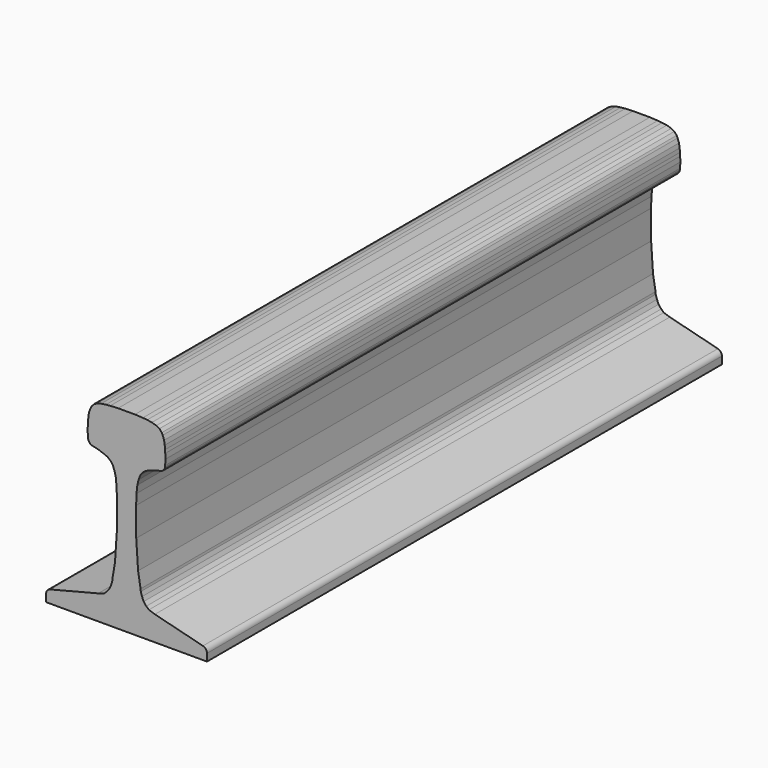
from build123d import *

# Parameters (mm, degrees)
F1_DEPTH = 609.6
F2_R     = 5.08


with BuildPart() as f1:
    # F0 (on Front) → F1 (new body)
    with BuildSketch(Plane.XZ):
        Polygon((-76.2, -46.21704), (-76.2, -57.094753), (76.2, -57.094753), (76.2, -46.21704), (26.83735, -33.72637), (21.163462, -31.835258), (18.708812, -29.612178), (16.218112, -26.55388), (14.689744, -22.895062), (13.485576, -19.143616), (13.305501, -16.85449), (10.935693, -2.660843), (9.173225, 23.941404), (9.095304, 51.274587), (9.465817, 61.371074), (10.203332, 68.52603), (11.415046, 73.405639), (12.987001, 77.66302), (14.984693, 80.446691), (18.095852, 83.001115), (20.683027, 84.147327), (25.922873, 85.98128), (30.180251, 87.1275), (33.094916, 87.749728), (34.175634, 88.306465), (35.387348, 89.616426), (36.173157, 90.991981), (36.40228, 91.97448), (36.598587, 93.513711), (36.598872, 93.52041), (36.827176, 98.88458), (36.669851, 103.667696), (36.407496, 106.64783), (36.177806, 110.315693), (35.555092, 114.278253), (34.24468, 117.978737), (33.327476, 119.878062), (31.132972, 122.464971), (28.218115, 124.036569), (24.026078, 125.34602), (19.539378, 126.000454), (15.433662, 126.392808), (7.999516, 126.762047), (0, 126.762047), (-7.999516, 126.762047), (-15.433662, 126.392808), (-19.539378, 126.000454), (-24.026078, 125.34602), (-28.218115, 124.036569), (-31.132972, 122.464971), (-33.327476, 119.878062), (-34.24468, 117.978737), (-35.555092, 114.278253), (-36.177806, 110.315693), (-36.407496, 106.64783), (-36.669851, 103.667696), (-36.827176, 98.88458), (-36.598872, 93.52041), (-36.598587, 93.513711), (-36.40228, 91.97448), (-36.173157, 90.991981), (-35.387348, 89.616426), (-34.175634, 88.306465), (-33.094916, 87.749728), (-30.180251, 87.1275), (-25.922873, 85.98128), (-20.683027, 84.147327), (-18.095852, 83.001115), (-14.984693, 80.446691), (-12.987001, 77.66302), (-11.415046, 73.405639), (-10.203332, 68.52603), (-9.465817, 61.371074), (-9.095304, 51.274587), (-9.173225, 23.941404), (-10.935693, -2.660843), (-13.305501, -16.85449), (-13.485576, -19.143616), (-14.689744, -22.895062), (-16.218112, -26.55388), (-18.708812, -29.612178), (-21.163462, -31.835258), (-26.83735, -33.72637), align=None)
    extrude(amount=F1_DEPTH)

    # F2
    f2_edges = [f1.edges().sort_by_distance(p)[0] for p in [
        (76.2, -304.8, -46.21704),
        (-76.2, -304.8, -46.21704),
    ]]
    fillet(f2_edges, radius=F2_R)


solid = f1.part
